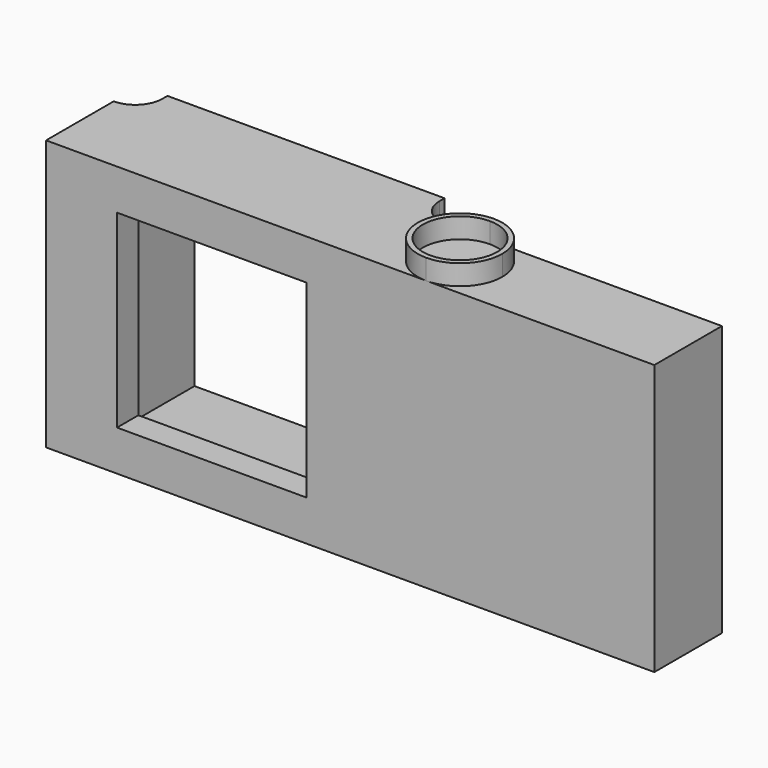
from build123d import *

# Parameters (mm, degrees)
F1_DEPTH = 40
F2_DEPTH = 46
F4_DEPTH = 27
F5_DEPTH = 60.6


with BuildPart() as f1:
    # F0 (on Top) → F1 (new body, symmetric)
    with BuildSketch(Plane.XY):
        with BuildLine():
            Line((-49, 0), (0, 0))
            Line((0, 0), (41, 0))
            Line((41, 0), (41, 10))
            Line((41, 10), (42.9, 10))
            Line((42.9, 10), (49, 10))
            ThreePointArc((49, 10), (43.3431457505, 12.3431457505), (41, 18))
            Line((41, 18), (41, 19.9))
            Line((41, 19.9), (0, 19.9))
            Line((0, 19.9), (-41, 19.9))
            Line((-41, 19.9), (-41, 18))
            ThreePointArc((-41, 18), (-43.3431457505, 12.3431457505), (-49, 10))
            Line((-49, 10), (-49, 9.95))
            Line((-49, 9.95), (-49, 0))
        make_face()
        Polygon((41, 0), (0, 0), (-49, 0), (-49, -15), (0, -15), (41, -15), align=None)
        with BuildLine():
            Line((41, 10), (41, 0))
            Line((41, 0), (41, -15))
            Line((41, -15), (63.5, -15))
            ThreePointArc((63.5, -15), (51, -2.5), (63.5, 10))
            Line((63.5, 10), (49, 10))
            Line((49, 10), (42.9, 10))
            Line((42.9, 10), (41, 10))
        make_face()
        with BuildLine():
            Line((41, 10), (41, 0))
            Line((41, 0), (41, -15))
            Line((41, -15), (63.5, -15))
            ThreePointArc((63.5, -15), (51, -2.5), (63.5, 10))
            Line((63.5, 10), (49, 10))
            Line((49, 10), (42.9, 10))
            Line((42.9, 10), (41, 10))
        make_face()
        with BuildLine():
            ThreePointArc((76, -2.5), (72.3388347648, -11.3388347648), (63.5, -15))
            Line((63.5, -15), (86, -15))
            Line((86, -15), (86, -2.5))
            Line((86, -2.5), (86, 10))
            Line((86, 10), (63.5, 10))
            ThreePointArc((63.5, 10), (72.3388347648, 6.3388347648), (76, -2.5))
        make_face()
        Polygon((86, -2.5), (86, -15), (131, -15), (131, 10), (86, 10), align=None)
        with BuildLine():
            Line((63.5, -2.5), (63.5, -13.5))
            ThreePointArc((63.5, -13.5), (71.2781745931, -10.2781745931), (74.5, -2.5))
            ThreePointArc((74.5, -2.5), (71.2781745931, 5.2781745931), (63.5, 8.5))
            Line((63.5, 8.5), (63.5, -2.5))
        make_face()
        with BuildLine():
            ThreePointArc((63.5, 8.5), (52.5, -2.5), (63.5, -13.5))
            Line((63.5, -13.5), (63.5, -2.5))
            Line((63.5, -2.5), (63.5, 8.5))
        make_face()
        with BuildLine():
            ThreePointArc((63.5, 10), (51, -2.5), (63.5, -15))
            Line((63.5, -15), (63.5, -13.5))
            ThreePointArc((63.5, -13.5), (52.5, -2.5), (63.5, 8.5))
            Line((63.5, 8.5), (63.5, 10))
        make_face()
        with BuildLine():
            Line((63.5, -13.5), (63.5, -15))
            ThreePointArc((63.5, -15), (72.3388347648, -11.3388347648), (76, -2.5))
            ThreePointArc((76, -2.5), (72.3388347648, 6.3388347648), (63.5, 10))
            Line((63.5, 10), (63.5, 8.5))
            ThreePointArc((63.5, 8.5), (71.2781745931, 5.2781745931), (74.5, -2.5))
            ThreePointArc((74.5, -2.5), (71.2781745931, -10.2781745931), (63.5, -13.5))
        make_face()
    extrude(amount=F1_DEPTH, both=True)

    # F0 (on Top) → F2 (join)
    with BuildSketch(Plane.XY):
        with BuildLine():
            ThreePointArc((63.5, 10), (51, -2.5), (63.5, -15))
            Line((63.5, -15), (63.5, -13.5))
            ThreePointArc((63.5, -13.5), (52.5, -2.5), (63.5, 8.5))
            Line((63.5, 8.5), (63.5, 10))
        make_face()
        with BuildLine():
            Line((63.5, -13.5), (63.5, -15))
            ThreePointArc((63.5, -15), (72.3388347648, -11.3388347648), (76, -2.5))
            ThreePointArc((76, -2.5), (72.3388347648, 6.3388347648), (63.5, 10))
            Line((63.5, 10), (63.5, 8.5))
            ThreePointArc((63.5, 8.5), (71.2781745931, 5.2781745931), (74.5, -2.5))
            ThreePointArc((74.5, -2.5), (71.2781745931, -10.2781745931), (63.5, -13.5))
        make_face()
    extrude(amount=F2_DEPTH)

    # F3 (on face) → F4 (cut)
    with BuildSketch(Plane(origin=(0, 19.9, 0), x_dir=(-1, 0, 0), z_dir=(0, 1, 0))):
        Polygon((-33, 0), (-28, 0), (-28, 28), (0, 28), (0, 33), (-33, 33), align=None)
        Polygon((28, 28), (28, 0), (28, -28), (0, -28), (-28, -28), (-28, 0), (-33, 0), (-33, -33), (0, -33), (33, -33), (33, 0), (33, 33), (0, 33), (0, 28), align=None)
    extrude(amount=-F4_DEPTH, mode=Mode.SUBTRACT)

    # F5 (cut): a face of the model
    f5_faces = [f1.faces().sort_by_distance(p)[0] for p in [
        (0, 19.9, 0),
    ]]
    extrude(f5_faces, amount=-F5_DEPTH, mode=Mode.SUBTRACT)


solid = f1.part
